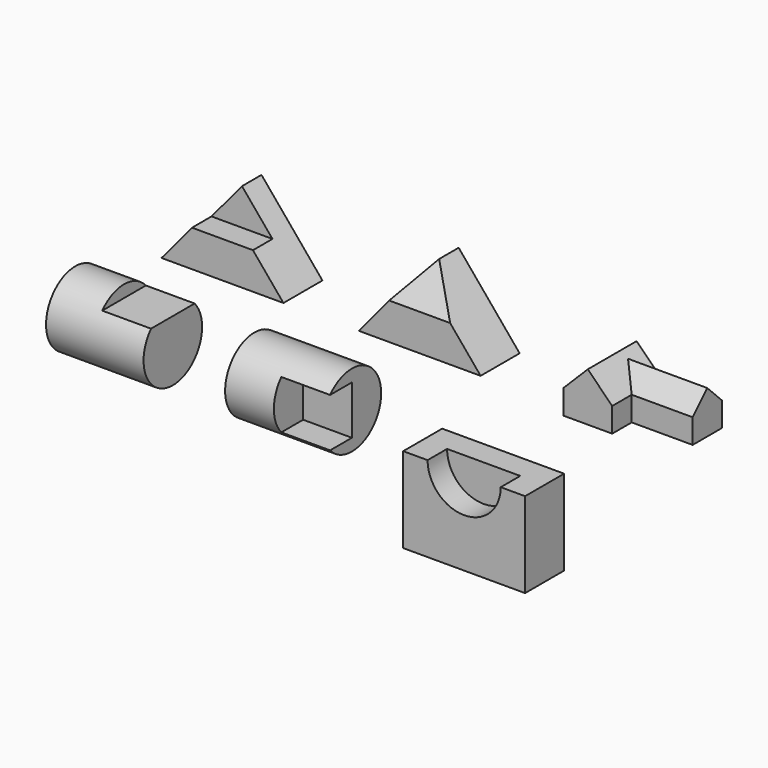
from build123d import *

# Parameters (mm, degrees)
F1_DEPTH  = 101.6
F2_DEPTH  = 50.8
F4_DEPTH  = 101.6
F5_DEPTH  = 101.6
F9_DEPTH  = 63.5
F11_DEPTH = 127
F15_R     = 76.2
F16_DEPTH = 203.2
F18_DEPTH = 101.6
F20_R     = 76.2
F21_DEPTH = 203.2
F23_DEPTH = 101.6
F24_W     = 254
F24_H     = 177.8
F25_DEPTH = 101.6
F27_DEPTH = 50.8


with BuildPart() as f1:
    # F0 (on Front) → F1 (new body)
    with BuildSketch(Plane.XZ):
        Polygon((127, 0), (254, 0), (190.5, 76.2), (63.5, 76.2), (0, 0), align=None)
    extrude(amount=F1_DEPTH)

    # F0 (on Front) → F2 (join)
    with BuildSketch(Plane.XZ):
        Polygon((127, 0), (254, 0), (190.5, 76.2), (63.5, 76.2), (0, 0), align=None)
        Polygon((63.5, 76.2), (190.5, 76.2), (127, 152.4), align=None)
    extrude(amount=F2_DEPTH)


with BuildPart() as f4:
    # F3 (on Front) → F4 (new body)
    with BuildSketch(Plane.XZ):
        Polygon((474.2767357125, 76.2), (601.2767357125, 76.2), (537.7767357125, 152.4), align=None)
    extrude(amount=F4_DEPTH)

    # F3 (on Front) → F5 (join)
    with BuildSketch(Plane.XZ):
        Polygon((410.7767357125, 0), (664.7767357125, 0), (601.2767357125, 76.2), (474.2767357125, 76.2), align=None)
        Polygon((474.2767357125, 76.2), (601.2767357125, 76.2), (537.7767357125, 152.4), align=None)
    extrude(amount=F5_DEPTH)

    # F8 (on 3pt) → F9 (cut, symmetric)
    with BuildSketch(Plane.YZ.offset(537.7767357125)):
        Polygon((-50.8, 152.4), (-101.6, 152.4), (-101.6, 76.2), align=None)
    extrude(amount=F9_DEPTH, both=True, mode=Mode.SUBTRACT)


with BuildPart() as f11:
    # F10 (on Front) → F11 (new body)
    with BuildSketch(Plane.XZ):
        Polygon((857.5985686302, 50.8), (857.5985686302, 0), (959.1985686302, 0), (959.1985686302, 50.8), (908.3985686302, 101.6), align=None)
    extrude(amount=F11_DEPTH)


with BuildPart() as f14:
    # F13 (on offset) → F14 (new body, up to the next surface of F11)
    with BuildSketch(Plane.YZ.offset(1086.1985686302)):
        Polygon((-76.2, 0), (0, 0), (0, 50.8), (-38.1, 88.9), (-76.2, 50.8), align=None)
    extrude(until=Until.NEXT, target=f11.part, dir=(-1, 0, 0))


with BuildPart() as f16:
    # F15 (on Right) → F16 (new body)
    with BuildSketch(Plane.YZ):
        with Locations((-326.1859508244, 0)):
            Circle(F15_R)
    extrude(amount=F16_DEPTH)

    # F17 (on face) → F18 (cut)
    with BuildSketch(Plane.YZ.offset(203.2)):
        with BuildLine():
            Line((-382.9820774529, 50.8), (-326.1859508244, 50.8))
            Line((-326.1859508244, 50.8), (-269.3898241959, 50.8))
            ThreePointArc((-269.3898241959, 50.8), (-326.1859508244, 76.2), (-382.9820774529, 50.8))
        make_face()
    extrude(amount=-F18_DEPTH, mode=Mode.SUBTRACT)


with BuildPart() as f21:
    # F20 (on offset) → F21 (new body)
    with BuildSketch(Plane.YZ.offset(373.38)):
        with Locations((-326.5561448047, 0)):
            Circle(F20_R)
    extrude(amount=F21_DEPTH)

    # F22 (on face) → F23 (cut)
    with BuildSketch(Plane.YZ.offset(576.58)):
        with BuildLine():
            Line((-326.5561448047, -50.8), (-326.5561448047, 0))
            Line((-326.5561448047, 0), (-326.5561448047, 50.8))
            Line((-326.5561448047, 50.8), (-383.3522714332, 50.8))
            ThreePointArc((-383.3522714332, 50.8), (-402.7561448047, 0), (-383.3522714332, -50.8))
            Line((-383.3522714332, -50.8), (-326.5561448047, -50.8))
        make_face()
    extrude(amount=-F23_DEPTH, mode=Mode.SUBTRACT)


with BuildPart() as f25:
    # F24 (on Front) → F25 (new body)
    with BuildSketch(Plane.XZ):
        with Locations((630.4435391426, -279.4734539032)):
            Rectangle(F24_W, F24_H)
    extrude(amount=F25_DEPTH)

    # F26 (on face) → F27 (cut)
    with BuildSketch(Plane.XZ.offset(101.6)):
        with BuildLine():
            Line((706.6435391426, -190.5734539032), (554.2435391426, -190.5734539032))
            ThreePointArc((554.2435391426, -190.5734539032), (630.4435391426, -266.7734539032), (706.6435391426, -190.5734539032))
        make_face()
    extrude(amount=-F27_DEPTH, mode=Mode.SUBTRACT)


solid = Compound([f1.part, f4.part, f11.part, f14.part, f16.part, f21.part, f25.part])
